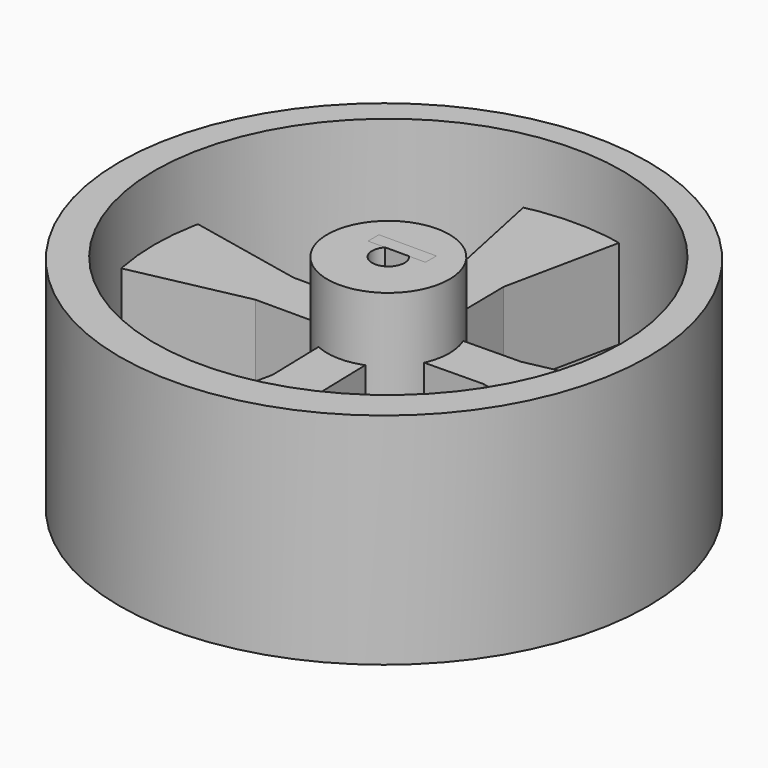
from build123d import *

# Parameters (mm, degrees)
F0_R      = 32.5
F1_DEPTH  = 13.5
F3_D      = 57.5
F4_R      = 7.5
F5_DEPTH  = 13.5
F7_DEPTH  = 5.5
F9_D      = 4
F9_2_D    = 4
F9_3_D    = 4
F9_4_D    = 4
F9_5_D    = 4
F10_W     = 7.0632050799
F10_H     = 1.6830373213
F11_DEPTH = 13.5


with BuildPart() as f1:
    # F0 (on Top) → F1 (new body, symmetric)
    with BuildSketch(Plane.XY):
        with Locations((0, -0.6672826035)):
            Circle(F0_R)
    extrude(amount=F1_DEPTH, both=True)

    # F3 (through all)
    with Locations(Plane.XY.offset(13.5)):
        with Locations((0, 0)):
            Hole(F3_D / 2)


with BuildPart() as f5:
    # F4 (on Top) → F5 (new body, symmetric)
    with BuildSketch(Plane.XY):
        Circle(F4_R)
    extrude(amount=F5_DEPTH, both=True)

    # F9 (through all)
    with Locations(Plane(origin=(0, 0, -13.5), x_dir=(1, 0, 0), z_dir=(0, 0, -1))):
        with Locations((0, 0)):
            Hole(F9_D / 2)


with BuildPart() as f7:
    # F6 (on Top) → F7 (new body, symmetric)
    with BuildSketch(Plane.XY):
        Polygon((-5.4526781901, -1.1415773441), (0, 0), (-5.4233162555, 1.1354301045), align=None)
        Polygon((-5.4758139886, -2.9357501771), (-5.4526781901, -1.1415773441), (-14.0224410071, -2.9357501771), align=None)
        Polygon((-14.0224410071, -2.9357501771), (-5.4526781901, -1.1415773441), (-5.4233162555, 1.1354301045), (-14.0224410071, 2.9357501771), align=None)
        Polygon((-14.0224410071, 2.9357501771), (-5.4233162555, 1.1354301045), (-5.4001011886, 2.9357501771), align=None)
        Polygon((-29.8527636912, -6.25), (-14.0224410071, -2.9357501771), (-14.0224410071, 2.9357501771), (-29.8527636912, 6.25), align=None)
    extrude(amount=F7_DEPTH, both=True)

    # F9#2 (through all)
    with Locations(Plane(origin=(0, 0, -13.5), x_dir=(1, 0, 0), z_dir=(0, 0, -1))):
        with Locations((0, 0)):
            Hole(F9_2_D / 2)


with BuildPart() as f7b:
    # F6 (on Top) → F7, piece 2 (new body, symmetric)
    with BuildSketch(Plane.XY):
        Polygon((-1.1384002799, 5.4375031268), (0, 0), (1.1384002799, 5.4375031268), align=None)
        Polygon((-1.1384002799, 5.4375031268), (1.1384002799, 5.4375031268), (2.9434306638, 14.0591264075), (-2.9275812765, 13.9834227253), align=None)
        Polygon((2.9434306638, 14.0591264075), (1.1384002799, 5.4375031268), (3.0546020659, 5.4375031268), align=None)
        Polygon((-2.8173879341, 5.4375031268), (-1.1384002799, 5.4375031268), (-2.9275812765, 13.9834227253), align=None)
        Polygon((-2.9275812765, 13.9834227253), (2.9434306638, 14.0591264075), (6.25, 29.8527636912), (-6.25, 29.8527636912), align=None)
    extrude(amount=F7_DEPTH, both=True)

    # F9#3 (through all)
    with Locations(Plane(origin=(0, 0, -13.5), x_dir=(1, 0, 0), z_dir=(0, 0, -1))):
        with Locations((0, 0)):
            Hole(F9_3_D / 2)


with BuildPart() as f7c:
    # F6 (on Top) → F7, piece 3 (new body, symmetric)
    with BuildSketch(Plane.XY):
        Polygon((5.4375031268, 1.1384002799), (0, 0), (5.4375031268, -1.1384002799), align=None)
        Polygon((5.4375031268, 1.1384002799), (5.4375031268, -1.1384002799), (14.0591264075, -2.9434306638), (13.9834227253, 2.9275812765), align=None)
        Polygon((14.0591264075, -2.9434306638), (5.4375031268, -1.1384002799), (5.4375031268, -3.0546020659), align=None)
        Polygon((5.4375031268, 2.8173879341), (5.4375031268, 1.1384002799), (13.9834227253, 2.9275812765), align=None)
        Polygon((13.9834227253, 2.9275812765), (14.0591264075, -2.9434306638), (29.8527636912, -6.25), (29.8527636912, 6.25), align=None)
    extrude(amount=F7_DEPTH, both=True)

    # F9#4 (through all)
    with Locations(Plane(origin=(0, 0, -13.5), x_dir=(1, 0, 0), z_dir=(0, 0, -1))):
        with Locations((0, 0)):
            Hole(F9_4_D / 2)


with BuildPart() as f7d:
    # F6 (on Top) → F7, piece 4 (new body, symmetric)
    with BuildSketch(Plane.XY):
        Polygon((-2.9506219909, -14.0934753658), (2.9189258512, -13.9420805869), (1.1344135947, -5.4184609555), (-1.1405551016, -5.4477955079), align=None)
        Polygon((1.1344135947, -5.4184609555), (2.9189258512, -13.9420805869), (2.6985536874, -5.3982921727), align=None)
        Polygon((6.25, -29.8527636912), (2.9189258512, -13.9420805869), (-2.9506219909, -14.0934753658), (-6.25, -29.8527636912), align=None)
        Polygon((-1.1405551016, -5.4477955079), (1.1344135947, -5.4184609555), (0, 0), align=None)
        Polygon((-3.1729482121, -5.4740021727), (-2.9506219909, -14.0934753658), (-1.1405551016, -5.4477955079), align=None)
    extrude(amount=F7_DEPTH, both=True)

    # F9#5 (through all)
    with Locations(Plane(origin=(0, 0, -13.5), x_dir=(1, 0, 0), z_dir=(0, 0, -1))):
        with Locations((0, 0)):
            Hole(F9_5_D / 2)


with BuildPart() as f11:
    # F10 (on Top) → F11 (new body, symmetric)
    with BuildSketch(Plane.XY):
        with Locations((-0.0477514695, 2.1915186606)):
            Rectangle(F10_W, F10_H)
    extrude(amount=F11_DEPTH, both=True)


solid = Compound([f1.part, f5.part, f7.part, f7b.part, f7c.part, f7d.part, f11.part])
